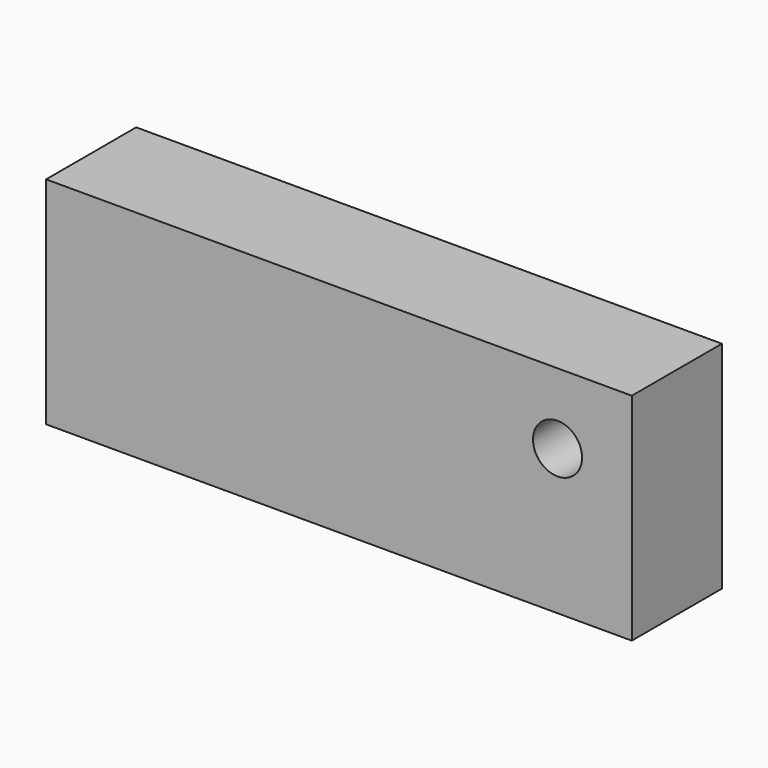
from build123d import *

# Parameters (mm, degrees)
F0_W     = 132.060304
F0_H     = 48.622414
F0_R     = 8.918459
F0_R_2   = 5.530692
F1_DEPTH = 25.4
F2_DEPTH = 3.175


with BuildPart() as f1:
    # F0 (on Front) → F1 (new body)
    with BuildSketch(Plane.XZ):
        Rectangle(F0_W, F0_H)
        with Locations((49.285725, 8.370818)):
            Circle(F0_R, mode=Mode.SUBTRACT)
        with Locations((49.285725, 8.370818)):
            Circle(F0_R)
        with Locations((49.285725, 8.370818)):
            Circle(F0_R_2, mode=Mode.SUBTRACT)
    extrude(amount=F1_DEPTH)

    # F0 (on Front) → F2 (cut, symmetric)
    with BuildSketch(Plane.XZ):
        with Locations((49.285725, 8.370818)):
            Circle(F0_R)
        with Locations((49.285725, 8.370818)):
            Circle(F0_R_2, mode=Mode.SUBTRACT)
    extrude(amount=F2_DEPTH, both=True, mode=Mode.SUBTRACT)


solid = f1.part
